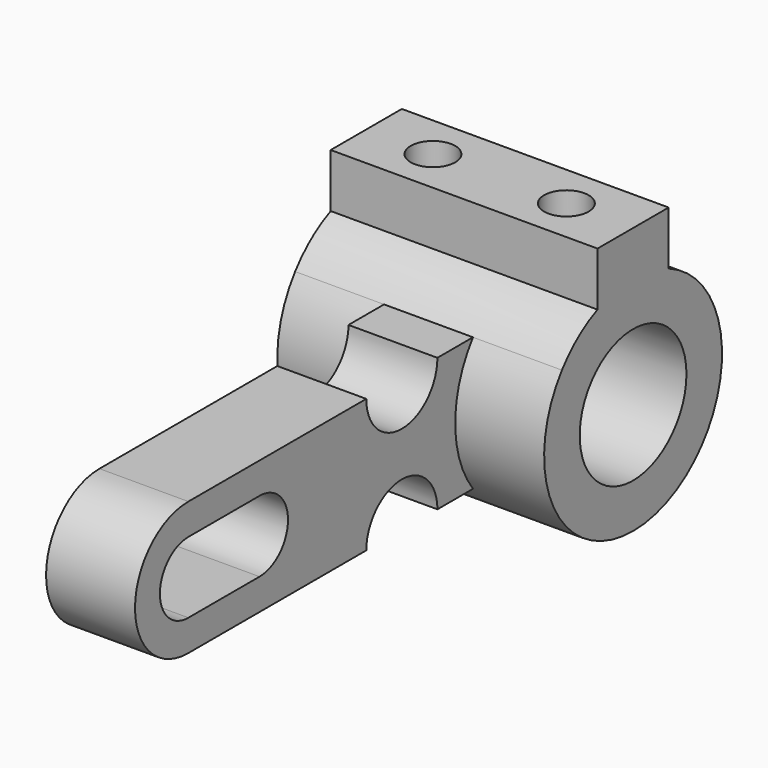
from build123d import *

# Parameters (mm, degrees)
F0_R     = 15
F1_DEPTH = 30
F2_DEPTH = 10
F3_R     = 5
F4_DEPTH = 20.8588644763


with BuildPart() as f1:
    # F0 (on Right) → F1 (new body, symmetric)
    with BuildSketch(Plane.YZ):
        with BuildLine():
            ThreePointArc((95, 30), (90, 15), (95, 0))
            ThreePointArc((95, 0), (134.6047593344, -0.5130078141), (125, 37.9128784748))
            Line((125, 37.9128784748), (125, 50))
            Line((125, 50), (105, 50))
            Line((105, 50), (105, 37.9128784748))
            ThreePointArc((105, 37.9128784748), (99.4869921859, 34.6047593344), (95, 30))
        make_face()
        with Locations((115, 15)):
            Circle(F0_R, mode=Mode.SUBTRACT)
    extrude(amount=F1_DEPTH, both=True)

    # F0 (on Right) → F2 (join, symmetric)
    with BuildSketch(Plane.YZ):
        with BuildLine():
            ThreePointArc((15, 30), (0, 15), (15, 0))
            Line((15, 0), (65, 0))
            ThreePointArc((65, 0), (75, 10), (85, 0))
            Line((85, 0), (95, 0))
            ThreePointArc((95, 0), (90, 15), (95, 30))
            Line((95, 30), (85, 30))
            ThreePointArc((85, 30), (75, 20), (65, 30))
            Line((65, 30), (15, 30))
        make_face()
        with BuildLine():
            ThreePointArc((15, 7), (7, 15), (15, 23))
            Line((15, 23), (35, 23))
            ThreePointArc((35, 23), (43, 15), (35, 7))
            Line((35, 7), (15, 7))
        make_face(mode=Mode.SUBTRACT)
    extrude(amount=F2_DEPTH, both=True)

    # F3 (on face) → F4 (cut, through all)
    with BuildSketch(Plane.XY.offset(50)):
        with Locations((15, 115)):
            Circle(F3_R)
        with Locations((-15, 115)):
            Circle(F3_R)
    extrude(amount=-F4_DEPTH, mode=Mode.SUBTRACT)


solid = f1.part
